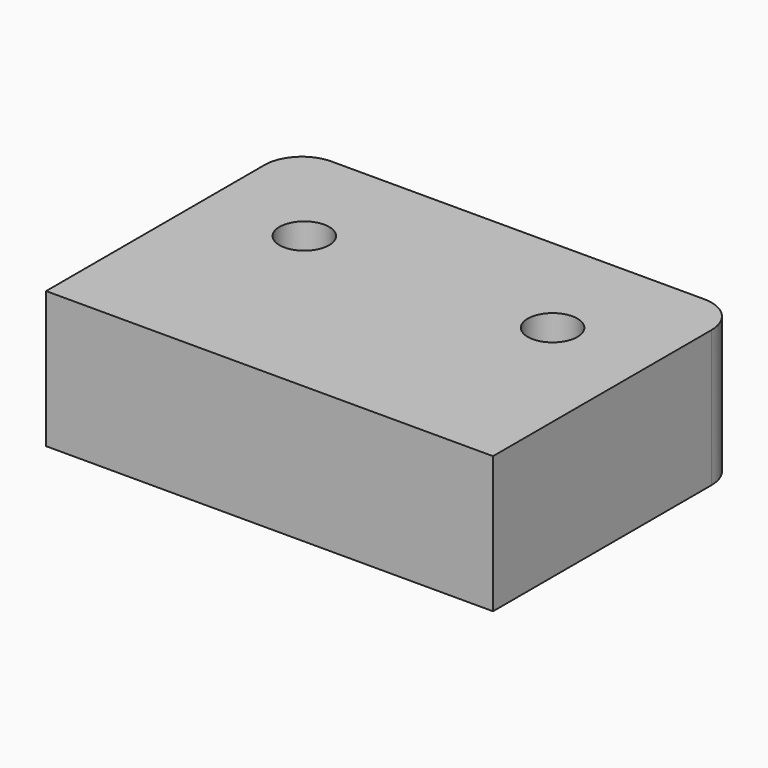
from build123d import *

# Parameters (mm, degrees)
SKETCH_W  = 36
SKETCH_H  = 25
SKETCH_R  = 2
PAD_DEPTH = 11
FILLET_R  = 3


with BuildPart() as part:
    # Sketch → Pad (new body)
    with BuildSketch(Plane.XY):
        with Locations((0, 12.5)):
            Rectangle(SKETCH_W, SKETCH_H)
        with Locations((10, 16)):
            Circle(SKETCH_R, mode=Mode.SUBTRACT)
        with Locations((-10, 16)):
            Circle(SKETCH_R, mode=Mode.SUBTRACT)
    extrude(amount=PAD_DEPTH)

    # Fillet
    fillet_edges = [part.edges().sort_by_distance(p)[0] for p in [
        (-18, 25, 5.5),
        (18, 25, 5.5),
    ]]
    fillet(fillet_edges, radius=FILLET_R)


solid = part.part
